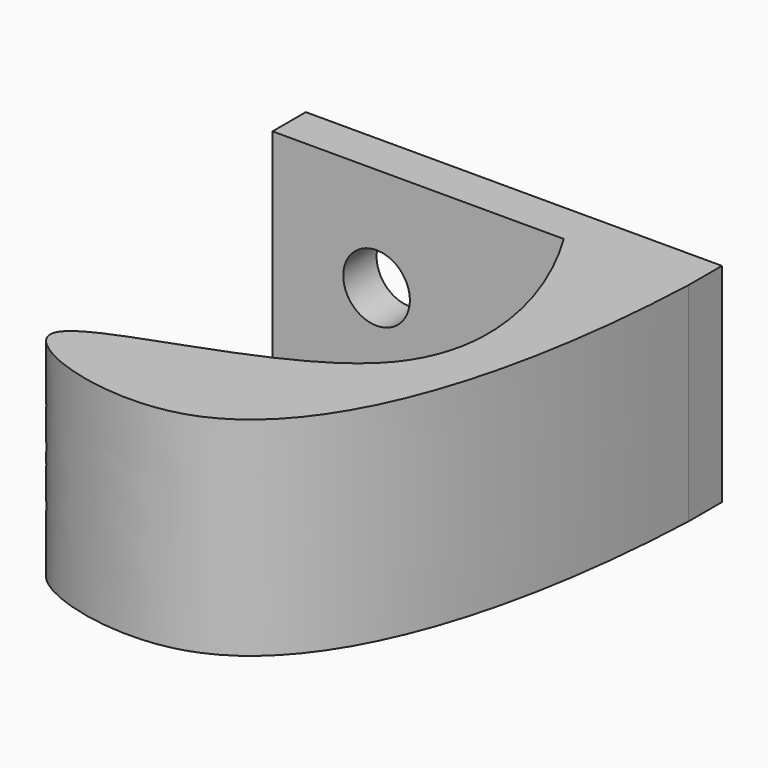
from build123d import *

# Parameters (mm, degrees)
F1_DEPTH = 10
F2_R     = 1.6
F3_DEPTH = 2


with BuildPart() as f1:
    # F0 (on Top) → F1 (new body)
    with BuildSketch(Plane.XY):
        Polygon((0, 2), (0, 0), (14, 0), (20, 0), (20, 2), align=None)
        with BuildLine():
            Line((20, 0), (14, 0))
            add(Edge.make_bspline(
                [(20, 0), (19.6479635601, -9), (16.0331369676, -23.9251417574), (-2.3457035676, -17.1725798053), (19.8386974467, -14.2383808485), (16.18726315, -3.5738294308), (14, 0)],
                knots=[0, 0, 0, 0, 0.3191976922, 0.5163482731, 0.7616988573, 1, 1, 1, 1], degree=3))
        make_face()
        Polygon((0, 2), (0, 0), (14, 0), (20, 0), (20, 2), align=None)
    extrude(amount=F1_DEPTH)

    # F2 (on face) → F3 (cut, through all)
    with BuildSketch(Plane(origin=(0, 2, 0), x_dir=(-1, 0, 0), z_dir=(0, 1, 0))):
        with Locations((-5, 5)):
            Circle(F2_R)
    extrude(amount=-F3_DEPTH, mode=Mode.SUBTRACT)


solid = f1.part
